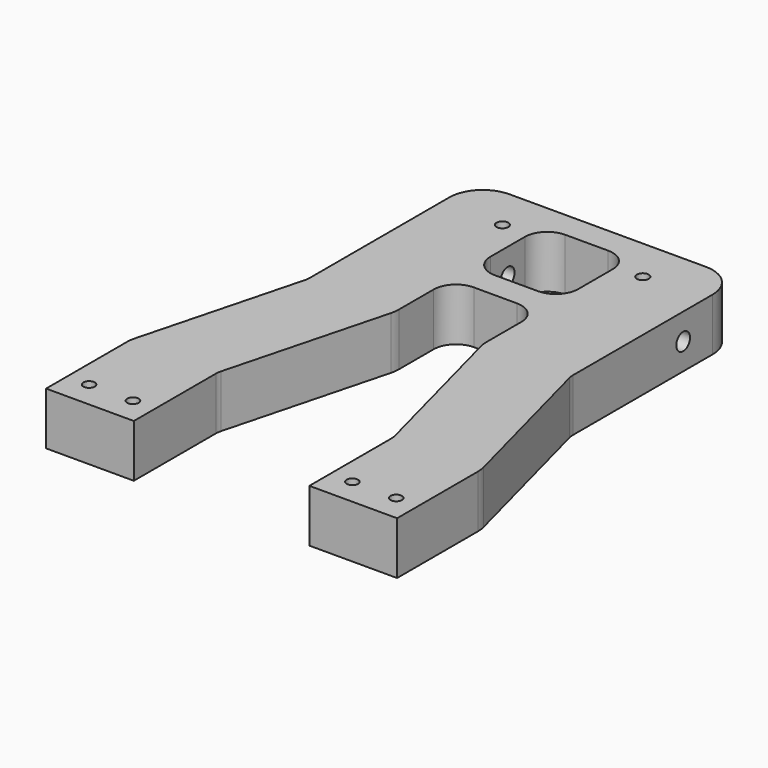
from build123d import *

# Parameters (mm, degrees)
F0_R     = 3.2639
F0_R_2   = 3.37312
F0_W     = 50
F0_H     = 50
F1_DEPTH = 30
F2_R     = 12.7
F3_R     = 19.05
F4_R     = 3.37312
F5_DEPTH = 7.62
F6_R     = 4.9022
F7_DEPTH = 175.001


with BuildPart() as f1:
    # F0 (on Top) → F1 (new body)
    with BuildSketch(Plane.XY):
        Polygon((-100, -137.5), (-50, -137.5), (-50, -77.5), (-25, 17.5), (-25, 57.5), (25, 57.5), (25, 17.5), (50, -77.5), (50, -137.5), (100, -137.5), (100, -77.5), (75, 17.5), (75, 137.5), (-75, 137.5), (-75, 17.5), (-100, -77.5), align=None)
        with Locations((-87.5, -122.5)):
            Circle(F0_R, mode=Mode.SUBTRACT)
        with Locations((-62.5, -122.5)):
            Circle(F0_R, mode=Mode.SUBTRACT)
        with Locations((62.5, -122.5)):
            Circle(F0_R, mode=Mode.SUBTRACT)
        with Locations((87.5, -122.5)):
            Circle(F0_R, mode=Mode.SUBTRACT)
        with Locations((-40, 112.5)):
            Circle(F0_R_2, mode=Mode.SUBTRACT)
        with Locations((0, 97.5)):
            Rectangle(F0_W, F0_H, mode=Mode.SUBTRACT)
        with Locations((40, 112.5)):
            Circle(F0_R_2, mode=Mode.SUBTRACT)
        with Locations((-40, 112.5)):
            Circle(F0_R_2)
        with Locations((40, 112.5)):
            Circle(F0_R_2)
    extrude(amount=F1_DEPTH)

    # F2
    f2_edges = [f1.edges().sort_by_distance(p)[0] for p in [
        (-25, 122.5, 15),
        (25, 122.5, 15),
        (25, 72.5, 15),
        (-25, 72.5, 15),
        (-25, 57.5, 15),
        (25, 57.5, 15),
        (50, -77.5, 15),
        (-50, -77.5, 15),
        (-75, 17.5, 15),
        (75, 17.5, 15),
    ]]
    fillet(f2_edges, radius=F2_R)

    # F3
    f3_edges = [f1.edges().sort_by_distance(p)[0] for p in [
        (-100, -77.5, 15),
        (-75, 137.5, 15),
        (75, 137.5, 15),
        (100, -77.5, 15),
        (25, 17.5, 15),
        (-25, 17.5, 15),
    ]]
    fillet(f3_edges, radius=F3_R)

    # F4 (on face) → F5 (cut)
    with BuildSketch(Plane.XY.offset(30)):
        with Locations((-40, 112.5)):
            Circle(F4_R)
        with Locations((40, 112.5)):
            Circle(F4_R)
    extrude(amount=-F5_DEPTH, mode=Mode.SUBTRACT)

    # F6 (on face) → F7 (cut, through all)
    with BuildSketch(Plane(origin=(-75, 0, 0), x_dir=(0, -1, 0), z_dir=(-1, 0, 0))):
        with Locations((-97.5, 15)):
            Circle(F6_R)
    extrude(amount=-F7_DEPTH, mode=Mode.SUBTRACT)


solid = f1.part
